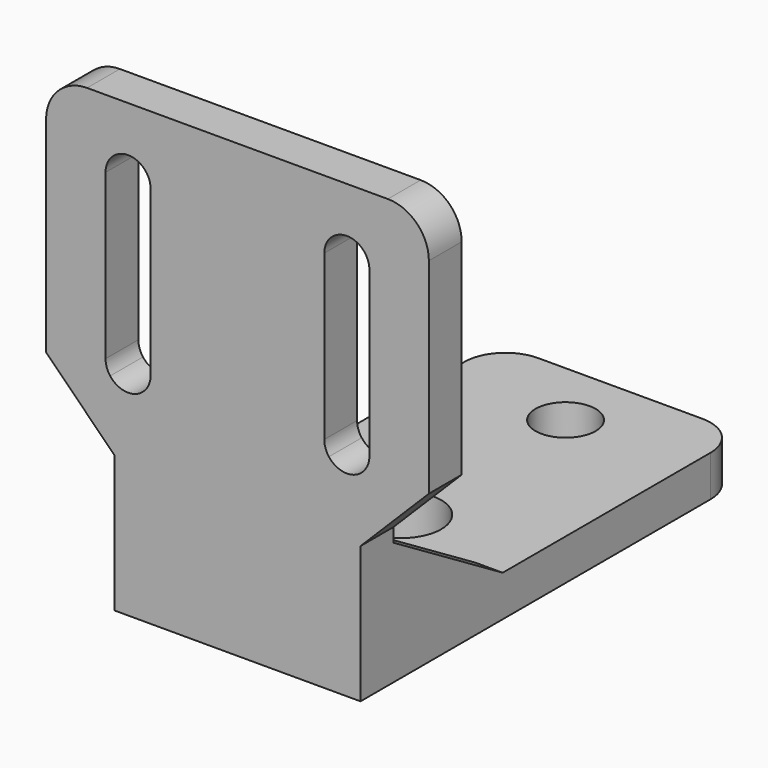
from build123d import *

# Parameters (mm, degrees)
F0_W     = 18
F0_H     = 35
F0_W_2   = 8.4
F0_H_2   = 5
F0_R     = 2.9
F0_R_2   = 2.2
F1_DEPTH = 3
F2_W     = 18
F2_H     = 7
F3_DEPTH = 3
F5_START = 7
F5_DEPTH = 2
F6_START = -7
F6_DEPTH = 2
F7_R     = 3


with BuildPart() as f1:
    # F0 (on Top) → F1 (new body)
    with BuildSketch(Plane.XY):
        Rectangle(F0_W, F0_H)
        with Locations((0, -12)):
            Rectangle(F0_W_2, F0_H_2, mode=Mode.SUBTRACT)
        with Locations((0, -2.5)):
            Circle(F0_R, mode=Mode.SUBTRACT)
        with Locations((0, 12.5)):
            Circle(F0_R_2, mode=Mode.SUBTRACT)
    extrude(amount=F1_DEPTH)

    # F2 (on face) → F3 (join)
    with BuildSketch(Plane.XZ.offset(17.5)):
        with Locations((0, 6.5)):
            Rectangle(F2_W, F2_H)
        with BuildLine():
            Line((-14, 15), (-9, 10))
            Line((-9, 10), (9, 10))
            Line((9, 10), (14, 15))
            Line((14, 15), (9.3124404748, 15))
            ThreePointArc((9.3124404748, 15), (8, 14.35), (6.6875595252, 15))
            Line((6.6875595252, 15), (-6.6875595252, 15))
            ThreePointArc((-6.6875595252, 15), (-8, 14.35), (-9.3124404748, 15))
            Line((-9.3124404748, 15), (-14, 15))
        make_face()
        with BuildLine():
            Line((-14, 33), (-14, 15))
            Line((-14, 15), (-9.3124404748, 15))
            ThreePointArc((-9.3124404748, 15), (-9.5633340627, 15.4722816961), (-9.65, 16))
            Line((-9.65, 16), (-9.65, 28))
            ThreePointArc((-9.65, 28), (-8, 29.65), (-6.35, 28))
            Line((-6.35, 28), (-6.35, 16))
            ThreePointArc((-6.35, 16), (-6.4366659373, 15.4722816961), (-6.6875595252, 15))
            Line((-6.6875595252, 15), (6.6875595252, 15))
            ThreePointArc((6.6875595252, 15), (6.4366659373, 15.4722816961), (6.35, 16))
            Line((6.35, 16), (6.35, 28))
            ThreePointArc((6.35, 28), (8, 29.65), (9.65, 28))
            Line((9.65, 28), (9.65, 16))
            ThreePointArc((9.65, 16), (9.5633340627, 15.4722816961), (9.3124404748, 15))
            Line((9.3124404748, 15), (14, 15))
            Line((14, 15), (14, 33))
            Line((14, 33), (-14, 33))
        make_face()
    extrude(amount=-F3_DEPTH)

    # F4 (on Right) → F5 (join)
    with BuildSketch(Plane.YZ.offset(F5_START)):
        Polygon((-4.5, 3), (-14.5, 9), (-14.5, 3), align=None)
    extrude(amount=F5_DEPTH)

    # F4 (on Right) → F6 (join)
    with BuildSketch(Plane.YZ.offset(F6_START)):
        Polygon((-4.5, 3), (-14.5, 9), (-14.5, 3), align=None)
    extrude(amount=-F6_DEPTH)

    # F7
    f7_edges = [f1.edges().sort_by_distance(p)[0] for p in [
        (-14, -16, 33),
        (14, -16, 33),
        (9, 17.5, 1.5),
        (-9, 17.5, 1.5),
    ]]
    fillet(f7_edges, radius=F7_R)


solid = f1.part
